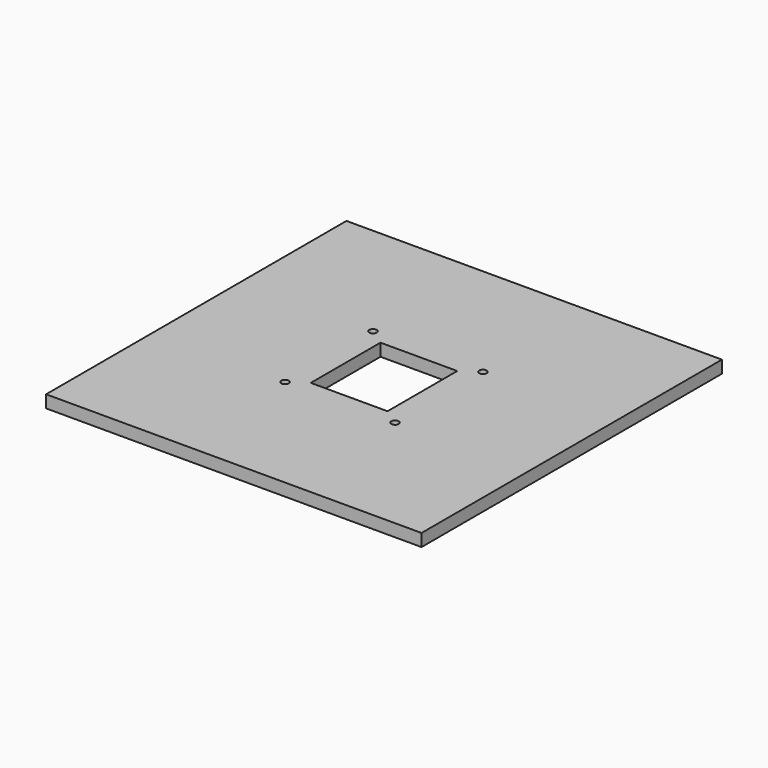
from build123d import *

# Parameters (mm, degrees)
F0_W     = 181
F0_H     = 181
F0_R     = 1.8
F0_W_2   = 37
F0_H_2   = 42
F1_DEPTH = 6


with BuildPart() as f1:
    # F0 (on Top) → F1 (new body)
    with BuildSketch(Plane.XY):
        Rectangle(F0_W, F0_H)
        with Locations((-26.5, -26.5)):
            Circle(F0_R, mode=Mode.SUBTRACT)
        with Locations((26.5, -26.5)):
            Circle(F0_R, mode=Mode.SUBTRACT)
        with Locations((-26.5, 26.5)):
            Circle(F0_R, mode=Mode.SUBTRACT)
        Rectangle(F0_W_2, F0_H_2, mode=Mode.SUBTRACT)
        with Locations((26.5, 26.5)):
            Circle(F0_R, mode=Mode.SUBTRACT)
    extrude(amount=F1_DEPTH)


solid = f1.part
